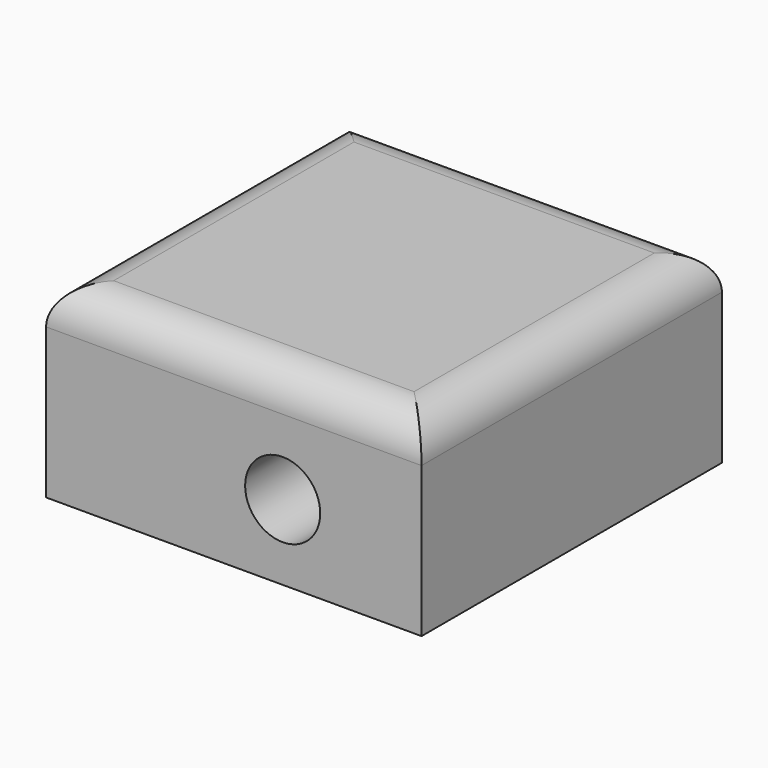
from build123d import *

# Parameters (mm, degrees)
F0_W     = 50
F0_H     = 25
F1_DEPTH = 50
F2_R     = 5
F3_R     = 5
F4_DEPTH = 50.001


with BuildPart() as f1:
    # F0 (on Front) → F1 (new body)
    with BuildSketch(Plane.XZ):
        Rectangle(F0_W, F0_H)
    extrude(amount=-F1_DEPTH)

    # F2
    f2_edges = [f1.edges().sort_by_distance(p)[0] for p in [
        (-25, 25, 12.5),
        (25, 25, 12.5),
        (0, 0, 12.5),
        (0, 50, 12.5),
    ]]
    fillet(f2_edges, radius=F2_R)

    # F3 (on face) → F4 (cut, through all)
    with BuildSketch(Plane(origin=(0, 50, 0), x_dir=(-1, 0, 0), z_dir=(0, 1, 0))):
        with Locations((-6.507594, -2.5)):
            Circle(F3_R)
    extrude(amount=-F4_DEPTH, mode=Mode.SUBTRACT)


solid = f1.part
